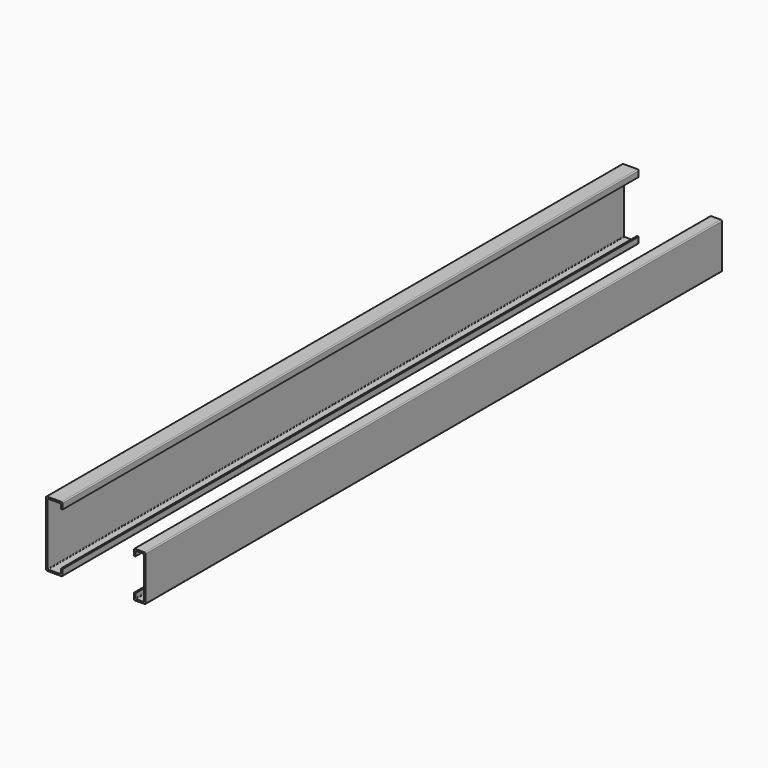
from build123d import *

# Parameters (mm, degrees)
F1_DEPTH = 558.8
F3_DEPTH = 558.8


with BuildPart() as f1:
    # F0 (on Front) → F1 (new body)
    with BuildSketch(Plane.XZ):
        with BuildLine():
            Line((-0.762, 50.8), (-11.938, 50.8))
            ThreePointArc((-11.938, 50.8), (-12.4768153673, 50.5768153673), (-12.7, 50.038))
            Line((-12.7, 50.038), (-12.7, 0.762))
            ThreePointArc((-12.7, 0.762), (-12.4768153673, 0.2231846327), (-11.938, 0))
            Line((-11.938, 0), (-0.762, 0))
            ThreePointArc((-0.762, 0), (-0.2231846327, 0.2231846327), (0, 0.762))
            Line((0, 0.762), (0, 5.08))
            Line((0, 5.08), (-1.27, 5.08))
            Line((-1.27, 5.08), (-1.27, 1.778))
            ThreePointArc((-1.27, 1.778), (-1.4187897552, 1.4187897552), (-1.778, 1.27))
            Line((-1.778, 1.27), (-10.922, 1.27))
            ThreePointArc((-10.922, 1.27), (-11.2812102448, 1.4187897552), (-11.43, 1.778))
            Line((-11.43, 1.778), (-11.43, 49.022))
            ThreePointArc((-11.43, 49.022), (-11.2812102448, 49.3812102448), (-10.922, 49.53))
            Line((-10.922, 49.53), (-1.778, 49.53))
            ThreePointArc((-1.778, 49.53), (-1.4187897552, 49.3812102448), (-1.27, 49.022))
            Line((-1.27, 49.022), (-1.27, 45.72))
            Line((-1.27, 45.72), (0, 45.72))
            Line((0, 45.72), (0, 50.038))
            ThreePointArc((0, 50.038), (-0.2231846327, 50.5768153673), (-0.762, 50.8))
        make_face()
    extrude(amount=-F1_DEPTH)


with BuildPart() as f3:
    # F2 (on Front) → F3 (new body, through all)
    with BuildSketch(Plane.XZ):
        with BuildLine():
            Line((55.4355934913, 36.5537767948), (55.4355934913, 32.2357767948))
            Line((55.4355934913, 32.2357767948), (56.7055934913, 32.2357767948))
            Line((56.7055934913, 32.2357767948), (56.7055934913, 35.5377767948))
            ThreePointArc((56.7055934913, 35.5377767948), (56.8543832465, 35.8969870396), (57.2135934913, 36.0457767948))
            Line((57.2135934913, 36.0457767948), (62.7857184913, 36.0457767948))
            ThreePointArc((62.7857184913, 36.0457767948), (63.1449287362, 35.8969870396), (63.2937184913, 35.5377767948))
            Line((63.2937184913, 35.5377767948), (63.2937184913, 3.7719017948))
            ThreePointArc((63.2937184913, 3.7719017948), (63.1449287362, 3.4126915499), (62.7857184913, 3.2639017948))
            Line((62.7857184913, 3.2639017948), (57.2135934913, 3.2639017948))
            ThreePointArc((57.2135934913, 3.2639017948), (56.8543832465, 3.4126915499), (56.7055934913, 3.7719017948))
            Line((56.7055934913, 3.7719017948), (56.7055934913, 7.0739017948))
            Line((56.7055934913, 7.0739017948), (55.4355934913, 7.0739017948))
            Line((55.4355934913, 7.0739017948), (55.4355934913, 2.7559017948))
            ThreePointArc((55.4355934913, 2.7559017948), (55.6587781241, 2.2170864275), (56.1975934913, 1.9939017948))
            Line((56.1975934913, 1.9939017948), (63.8017184913, 1.9939017948))
            ThreePointArc((63.8017184913, 1.9939017948), (64.3405338586, 2.2170864275), (64.5637184913, 2.7559017948))
            Line((64.5637184913, 2.7559017948), (64.5637184913, 36.5537767948))
            ThreePointArc((64.5637184913, 36.5537767948), (64.3405338586, 37.092592162), (63.8017184913, 37.3157767948))
            Line((63.8017184913, 37.3157767948), (56.1975934913, 37.3157767948))
            ThreePointArc((56.1975934913, 37.3157767948), (55.6587781241, 37.092592162), (55.4355934913, 36.5537767948))
        make_face()
    extrude(amount=-F3_DEPTH)


solid = Compound([f1.part, f3.part])
